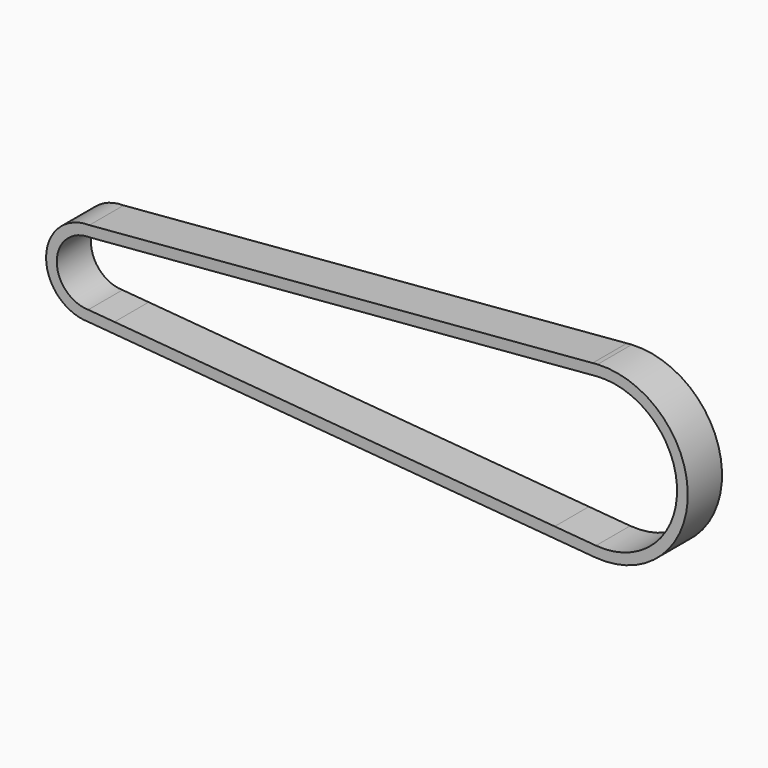
from build123d import *

# Parameters (mm, degrees)
F1_DEPTH = 12.7


with BuildPart() as f1:
    # F0 (on Front) → F1 (new body)
    with BuildSketch(Plane.XZ):
        with BuildLine():
            Line((-2.8614659345, 25.2383044737), (-152.2392334973, 12.6989824054))
            ThreePointArc((-152.2392334973, 12.6989824054), (-165.0996721713, 0.0912509774), (-152.421732718, -12.6999814051))
            Line((-152.421732718, -12.6999814051), (-2.1237788852, -25.3110561464))
            ThreePointArc((-2.1237788852, -25.3110561464), (25.3973091766, -0.3697114954), (-1.3861233029, 25.3621501886))
            Line((-1.3861233029, 25.3621501886), (-2.8614659345, 25.2383044737))
        make_face()
        with BuildLine():
            ThreePointArc((-1.8591100152, 22.1471066948), (22.2249999045, 0.0020599789), (-1.8550044649, -22.1474509467))
            Line((-1.8550044649, -22.1474509467), (-1.8591100471, -22.1471070753))
            Line((-1.8591100471, -22.1471070753), (-14.1088199902, -21.1211078896))
            Line((-14.1088199902, -21.1211078896), (-144.7998013534, -10.1748209091))
            Line((-144.7998013534, -10.1748209091), (-152.5780849398, -9.5233350647))
            ThreePointArc((-152.5780849398, -9.5233350647), (-161.9234930515, 0.1694257913), (-152.2392334973, 9.5236431649))
            Line((-152.2392334973, 9.5236431649), (-1.8591100152, 22.1471066948))
        make_face(mode=Mode.SUBTRACT)
        with BuildLine():
            ThreePointArc((-1.3861233029, 25.3621501886), (-2.1246971603, 25.3109790798), (-2.8614659345, 25.2383044737))
            Line((-2.8614659345, 25.2383044737), (-1.3861233029, 25.3621501886))
        make_face()
    extrude(amount=F1_DEPTH)


solid = f1.part
